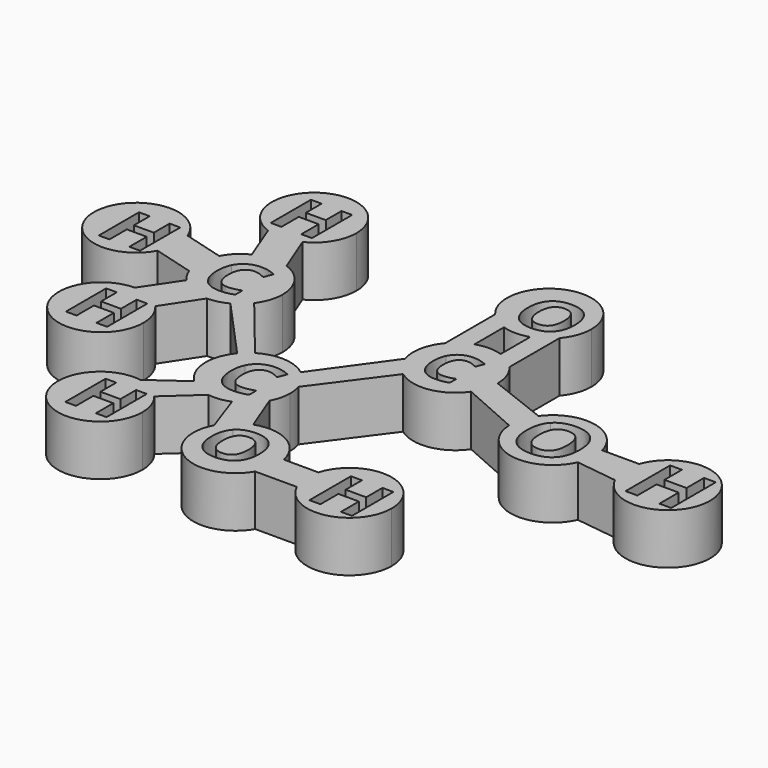
from build123d import *

# Parameters (mm, degrees)
F1_DEPTH = 7.62
F2_DEPTH = 7.62
F3_DEPTH = 7.62
F4_DEPTH = 7.62


with BuildPart() as f1:
    # F0 (on Top) → F1 (new body)
    with BuildSketch(Plane.XY):
        with BuildLine():
            ThreePointArc((-41.5472094332, 7.867381293), (-40.6139792136, 9.661250429), (-40.2920197554, 11.6575538196))
            ThreePointArc((-40.2920197554, 11.6575538196), (-41.4442566989, 15.3052598397), (-44.4828100575, 17.6291795179))
            ThreePointArc((-44.4828100575, 17.6291795179), (-47.0134620153, 17.9966807821), (-49.4838757384, 17.3361411942))
            ThreePointArc((-49.4838757384, 17.3361411942), (-51.0721917769, 16.2068478153), (-52.2432216617, 14.649047962))
            ThreePointArc((-52.2432216617, 14.649047962), (-52.9765445372, 12.1006066242), (-52.6051150283, 9.4748960896))
            ThreePointArc((-52.6051150283, 9.4748960896), (-52.0912500042, 8.3974327029), (-51.3848108774, 7.4351809828))
            ThreePointArc((-51.3848108774, 7.4351809828), (-49.2342923143, 5.860776872), (-46.6271018654, 5.3075713427))
            ThreePointArc((-46.6271018654, 5.3075713427), (-45.1019442488, 5.4971425156), (-43.6670023813, 6.0475830867))
            ThreePointArc((-43.6670023813, 6.0475830867), (-42.5057840102, 6.8394573219), (-41.5472094332, 7.867381293))
        make_face()
        with BuildLine():
            add(Edge.make_bspline(
                [(-45.6979172313, 14.0478825951), (-46.1262115021, 14.197537543), (-46.5396229604, 14.197537543)],
                knots=[0, 0, 0, 1, 1, 1], degree=2))
            add(Edge.make_bspline(
                [(-46.5396229604, 14.197537543), (-47.4441672313, 14.197537543), (-47.9402609813, 13.5178891055)],
                knots=[0, 0, 0, 1, 1, 1], degree=2))
            add(Edge.make_bspline(
                [(-47.9402609813, 13.5178891055), (-48.4363547313, 12.838240668), (-48.4363547313, 11.6244646263)],
                knots=[0, 0, 0, 1, 1, 1], degree=2))
            add(Edge.make_bspline(
                [(-48.4363547313, 11.6244646263), (-48.4363547313, 9.097693793), (-46.5396229604, 9.097693793)],
                knots=[0, 0, 0, 1, 1, 1], degree=2))
            add(Edge.make_bspline(
                [(-46.5396229604, 9.097693793), (-45.7442193146, 9.097693793), (-44.6131255646, 9.494568793)],
                knots=[0, 0, 0, 1, 1, 1], degree=2))
            Line((-44.6131255646, 9.494568793), (-44.6131255646, 8.1518083763))
            add(Edge.make_bspline(
                [(-44.6131255646, 8.1518083763), (-45.5424745229, 7.7632016055), (-46.6901047313, 7.7632016055)],
                knots=[0, 0, 0, 1, 1, 1], degree=2))
            add(Edge.make_bspline(
                [(-46.6901047313, 7.7632016055), (-48.3387896271, 7.7632016055), (-49.2119146271, 8.7636573346)],
                knots=[0, 0, 0, 1, 1, 1], degree=2))
            add(Edge.make_bspline(
                [(-49.2119146271, 8.7636573346), (-50.0850396271, 9.7641130638), (-50.0850396271, 11.6343865013)],
                knots=[0, 0, 0, 1, 1, 1], degree=2))
            add(Edge.make_bspline(
                [(-50.0850396271, 11.6343865013), (-50.0850396271, 12.8134359805), (-49.6559185334, 13.6997901471)],
                knots=[0, 0, 0, 1, 1, 1], degree=2))
            add(Edge.make_bspline(
                [(-49.6559185334, 13.6997901471), (-49.2267974396, 14.5861443138), (-48.4231255646, 15.0582601992)],
                knots=[0, 0, 0, 1, 1, 1], degree=2))
            add(Edge.make_bspline(
                [(-48.4231255646, 15.0582601992), (-47.6194536896, 15.5303760846), (-46.5396229604, 15.5303760846)],
                knots=[0, 0, 0, 1, 1, 1], degree=2))
            add(Edge.make_bspline(
                [(-46.5396229604, 15.5303760846), (-45.4399484813, 15.5303760846), (-44.3286984813, 14.9995557721)],
                knots=[0, 0, 0, 1, 1, 1], degree=2))
            Line((-44.3286984813, 14.9995557721), (-44.8446359813, 13.6964828555))
            add(Edge.make_bspline(
                [(-44.8446359813, 13.6964828555), (-45.2696229604, 13.8982276471), (-45.6979172313, 14.0478825951)],
                knots=[0, 0, 0, 1, 1, 1], degree=2))
        make_face(mode=Mode.SUBTRACT)
        with BuildLine():
            ThreePointArc((-49.4838757384, 17.3361411942), (-47.0134620153, 17.9966807821), (-44.4828100575, 17.6291795179))
            Line((-44.4828100575, 17.6291795179), (-46.8230163785, 23.5322240184))
            ThreePointArc((-46.8230163785, 23.5322240184), (-49.2724815027, 22.8906955459), (-51.7778847596, 23.2572916408))
            Line((-51.7778847596, 23.2572916408), (-49.4838757384, 17.3361411942))
        make_face()
        with BuildLine():
            Line((-33.539114735, -1.9885576455), (-41.5472094332, 7.867381293))
            ThreePointArc((-41.5472094332, 7.867381293), (-42.5057840102, 6.8394573219), (-43.6670023813, 6.0475830867))
            Line((-43.6670023813, 6.0475830867), (-35.1290295847, -3.3541731601))
            ThreePointArc((-35.1290295847, -3.3541731601), (-34.3908030894, -2.6053165433), (-33.539114735, -1.9885576455))
        make_face()
        with BuildLine():
            ThreePointArc((-51.7778847596, 23.2572916408), (-49.2724815027, 22.8906955459), (-46.8230163785, 23.5322240184))
            ThreePointArc((-46.8230163785, 23.5322240184), (-44.233990102, 25.8742743514), (-43.2742848404, 29.2309427344))
            ThreePointArc((-43.2742848404, 29.2309427344), (-53.274431448, 34.4269921706), (-51.7778847596, 23.2572916408))
        make_face()
        Polygon((-46.5624499076, 32.5375534976), (-46.5624499076, 24.9820456851), (-48.1598717826, 24.9820456851), (-48.1598717826, 28.2430352684), (-51.1513170951, 28.2430352684), (-51.1513170951, 24.9820456851), (-52.7536999076, 24.9820456851), (-52.7536999076, 32.5375534976), (-51.1513170951, 32.5375534976), (-51.1513170951, 29.5758738101), (-48.1598717826, 29.5758738101), (-48.1598717826, 32.5375534976), align=None, mode=Mode.SUBTRACT)
        with BuildLine():
            ThreePointArc((-26.3201731453, -2.4371026397), (-29.8595405508, -1.0845770587), (-33.539114735, -1.9885576455))
            ThreePointArc((-33.539114735, -1.9885576455), (-34.3908030894, -2.6053165433), (-35.1290295847, -3.3541731601))
            ThreePointArc((-35.1290295847, -3.3541731601), (-36.5928094864, -7.7878161763), (-34.6292338381, -12.0238771614))
            ThreePointArc((-34.6292338381, -12.0238771614), (-33.0375543344, -13.1294224846), (-31.1865501161, -13.703406359))
            ThreePointArc((-31.1865501161, -13.703406359), (-29.5319438598, -13.7312448979), (-27.9263307737, -13.3306160601))
            ThreePointArc((-27.9263307737, -13.3306160601), (-26.0226036416, -12.1576913712), (-24.6434808197, -10.3975920668))
            ThreePointArc((-24.6434808197, -10.3975920668), (-24.0911488723, -8.9553137379), (-23.903334907, -7.4223547453))
            ThreePointArc((-23.903334907, -7.4223547453), (-23.977780063, -6.4528644673), (-24.1993699934, -5.5061061121))
            ThreePointArc((-24.1993699934, -5.5061061121), (-25.029316302, -3.8123506436), (-26.3201731453, -2.4371026397))
        make_face()
        with BuildLine():
            add(Edge.make_bspline(
                [(-28.5368360891, -4.793671858), (-28.96513036, -4.6440169101), (-29.3785418183, -4.6440169101)],
                knots=[0, 0, 0, 1, 1, 1], degree=2))
            add(Edge.make_bspline(
                [(-29.3785418183, -4.6440169101), (-30.2830860891, -4.6440169101), (-30.7791798391, -5.3236653476)],
                knots=[0, 0, 0, 1, 1, 1], degree=2))
            add(Edge.make_bspline(
                [(-30.7791798391, -5.3236653476), (-31.2752735891, -6.0033137851), (-31.2752735891, -7.2170898268)],
                knots=[0, 0, 0, 1, 1, 1], degree=2))
            add(Edge.make_bspline(
                [(-31.2752735891, -7.2170898268), (-31.2752735891, -9.7438606601), (-29.3785418183, -9.7438606601)],
                knots=[0, 0, 0, 1, 1, 1], degree=2))
            add(Edge.make_bspline(
                [(-29.3785418183, -9.7438606601), (-28.5831381725, -9.7438606601), (-27.4520444225, -9.3469856601)],
                knots=[0, 0, 0, 1, 1, 1], degree=2))
            Line((-27.4520444225, -9.3469856601), (-27.4520444225, -10.6897460768))
            add(Edge.make_bspline(
                [(-27.4520444225, -10.6897460768), (-28.3813933808, -11.0783528476), (-29.5290235891, -11.0783528476)],
                knots=[0, 0, 0, 1, 1, 1], degree=2))
            add(Edge.make_bspline(
                [(-29.5290235891, -11.0783528476), (-31.177708485, -11.0783528476), (-32.050833485, -10.0778971185)],
                knots=[0, 0, 0, 1, 1, 1], degree=2))
            add(Edge.make_bspline(
                [(-32.050833485, -10.0778971185), (-32.923958485, -9.0774413893), (-32.923958485, -7.2071679518)],
                knots=[0, 0, 0, 1, 1, 1], degree=2))
            add(Edge.make_bspline(
                [(-32.923958485, -7.2071679518), (-32.923958485, -6.0281184726), (-32.4948373912, -5.141764306)],
                knots=[0, 0, 0, 1, 1, 1], degree=2))
            add(Edge.make_bspline(
                [(-32.4948373912, -5.141764306), (-32.0657162975, -4.2554101393), (-31.2620444225, -3.7832942539)],
                knots=[0, 0, 0, 1, 1, 1], degree=2))
            add(Edge.make_bspline(
                [(-31.2620444225, -3.7832942539), (-30.4583725475, -3.3111783685), (-29.3785418183, -3.3111783685)],
                knots=[0, 0, 0, 1, 1, 1], degree=2))
            add(Edge.make_bspline(
                [(-29.3785418183, -3.3111783685), (-28.2788673391, -3.3111783685), (-27.1676173391, -3.841998681)],
                knots=[0, 0, 0, 1, 1, 1], degree=2))
            Line((-27.1676173391, -3.841998681), (-27.6835548391, -5.1450715976))
            add(Edge.make_bspline(
                [(-27.6835548391, -5.1450715976), (-28.1085418183, -4.943326806), (-28.5368360891, -4.793671858)],
                knots=[0, 0, 0, 1, 1, 1], degree=2))
        make_face(mode=Mode.SUBTRACT)
        with BuildLine():
            ThreePointArc((-52.6051150283, 9.4748960896), (-52.9765445372, 12.1006066242), (-52.2432216617, 14.649047962))
            Line((-52.2432216617, 14.649047962), (-58.3578806431, 16.3617783967))
            ThreePointArc((-58.3578806431, 16.3617783967), (-58.068450227, 15.2874629011), (-57.970975916, 14.1791206668))
            ThreePointArc((-57.970975916, 14.1791206668), (-58.161019256, 12.6372276915), (-58.7197740096, 11.1876265244))
            Line((-58.7197740096, 11.1876265244), (-52.6051150283, 9.4748960896))
        make_face()
        with BuildLine():
            Line((-50.1131004945, 0), (-46.6271018654, 5.3075713427))
            ThreePointArc((-46.6271018654, 5.3075713427), (-49.2342923143, 5.860776872), (-51.3848108774, 7.4351809828))
            Line((-51.3848108774, 7.4351809828), (-54.9445749736, 2.1767991424))
            ThreePointArc((-54.9445749736, 2.1767991424), (-52.2909138132, 1.6164792315), (-50.1131004945, 0))
        make_face()
        with BuildLine():
            Line((-18.8967230795, 7.867381293), (-26.3201731453, -2.4371026397))
            ThreePointArc((-26.3201731453, -2.4371026397), (-25.029316302, -3.8123506436), (-24.1993699934, -5.5061061121))
            Line((-24.1993699934, -5.5061061121), (-16.6327704727, 4.6937258323))
            ThreePointArc((-16.6327704727, 4.6937258323), (-18.0143183809, 6.1025196543), (-18.8967230795, 7.867381293))
        make_face()
        with BuildLine():
            ThreePointArc((-57.970975916, 14.1791206668), (-58.068450227, 15.2874629011), (-58.3578806431, 16.3617783967))
            ThreePointArc((-58.3578806431, 16.3617783967), (-70.6555006979, 14.6221734714), (-58.7197740096, 11.1876265244))
            ThreePointArc((-58.7197740096, 11.1876265244), (-58.161019256, 12.6372276915), (-57.970975916, 14.1791206668))
        make_face()
        Polygon((-60.3246733755, 17.4455633405), (-60.3246733755, 9.890055528), (-61.9220952505, 9.890055528), (-61.9220952505, 13.1510451114), (-64.913540563, 13.1510451114), (-64.913540563, 9.890055528), (-66.5159233755, 9.890055528), (-66.5159233755, 17.4455633405), (-64.913540563, 17.4455633405), (-64.913540563, 14.483883653), (-61.9220952505, 14.483883653), (-61.9220952505, 17.4455633405), align=None, mode=Mode.SUBTRACT)
        with BuildLine():
            ThreePointArc((-48.5493556508, -4.1730398487), (-48.953129106, -1.9448365638), (-50.1131004945, 0))
            ThreePointArc((-50.1131004945, 0), (-52.2909138132, 1.6164792315), (-54.9445749736, 2.1767991424))
            ThreePointArc((-54.9445749736, 2.1767991424), (-59.3734677024, -8.6791269928), (-48.5493556508, -4.1730398487))
        make_face()
        Polygon((-51.2570647713, -0.0644921875), (-51.2570647713, -7.62), (-52.8544866463, -7.62), (-52.8544866463, -4.3590104167), (-55.8459319588, -4.3590104167), (-55.8459319588, -7.62), (-57.4483147713, -7.62), (-57.4483147713, -0.0644921875), (-55.8459319588, -0.0644921875), (-55.8459319588, -3.026171875), (-52.8544866463, -3.026171875), (-52.8544866463, -0.0644921875), align=None, mode=Mode.SUBTRACT)
        with BuildLine():
            ThreePointArc((-31.1865501161, -13.703406359), (-33.0375543344, -13.1294224846), (-34.6292338381, -12.0238771614))
            Line((-34.6292338381, -12.0238771614), (-39.7977754426, -15.7128712902))
            ThreePointArc((-39.7977754426, -15.7128712902), (-37.6368818339, -16.4822685802), (-35.8903242164, -17.9692016205))
            Line((-35.8903242164, -17.9692016205), (-31.1865501161, -13.703406359))
        make_face()
        with BuildLine():
            ThreePointArc((-17.6821282379, 13.9039849618), (-19.0700841388, 11.0427555169), (-18.8967230795, 7.867381293))
            ThreePointArc((-18.8967230795, 7.867381293), (-18.0143183809, 6.1025196543), (-16.6327704727, 4.6937258323))
            ThreePointArc((-16.6327704727, 4.6937258323), (-11.8040182125, 3.526087342), (-7.612324866, 6.1925334643))
            ThreePointArc((-7.612324866, 6.1925334643), (-6.7806456374, 7.9065916499), (-6.4948436057, 9.7902059951))
            ThreePointArc((-6.4948436057, 9.7902059951), (-6.8850089849, 11.9817514071), (-8.0075589735, 13.9039849618))
            ThreePointArc((-8.0075589735, 13.9039849618), (-9.307864493, 15.0639407966), (-10.8745052178, 15.8267833894))
            ThreePointArc((-10.8745052178, 15.8267833894), (-12.8448436057, 16.1402059951), (-14.8151819936, 15.8267833894))
            ThreePointArc((-14.8151819936, 15.8267833894), (-16.3818227185, 15.0639407966), (-17.6821282379, 13.9039849618))
        make_face()
        with BuildLine():
            add(Edge.make_bspline(
                [(-11.9700489062, 11.7778634043), (-12.3595908111, 11.9139774676), (-12.7355965107, 11.9139774676)],
                knots=[0, 0, 0, 1, 1, 1], degree=2))
            add(Edge.make_bspline(
                [(-12.7355965107, 11.9139774676), (-13.5582969816, 11.9139774676), (-14.0095038212, 11.2958240973)],
                knots=[0, 0, 0, 1, 1, 1], degree=2))
            add(Edge.make_bspline(
                [(-14.0095038212, 11.2958240973), (-14.4607106608, 10.6776707271), (-14.4607106608, 9.5737179929)],
                knots=[0, 0, 0, 1, 1, 1], degree=2))
            add(Edge.make_bspline(
                [(-14.4607106608, 9.5737179929), (-14.4607106608, 7.2755711565), (-12.7355965107, 7.2755711565)],
                knots=[0, 0, 0, 1, 1, 1], degree=2))
            add(Edge.make_bspline(
                [(-12.7355965107, 7.2755711565), (-12.0121615446, 7.2755711565), (-10.9834099503, 7.6365366282)],
                knots=[0, 0, 0, 1, 1, 1], degree=2))
            Line((-10.9834099503, 7.6365366282), (-10.9834099503, 6.4152701157))
            add(Edge.make_bspline(
                [(-10.9834099503, 6.4152701157), (-11.8286707632, 6.061824758), (-12.8724625854, 6.061824758)],
                knots=[0, 0, 0, 1, 1, 1], degree=2))
            add(Edge.make_bspline(
                [(-12.8724625854, 6.061824758), (-14.3719733157, 6.061824758), (-15.1660973534, 6.9717585512)],
                knots=[0, 0, 0, 1, 1, 1], degree=2))
            add(Edge.make_bspline(
                [(-15.1660973534, 6.9717585512), (-15.960221391, 7.8816923444), (-15.960221391, 9.5827421297)],
                knots=[0, 0, 0, 1, 1, 1], degree=2))
            add(Edge.make_bspline(
                [(-15.960221391, 9.5827421297), (-15.960221391, 10.6551103851), (-15.5699274748, 11.4612666052)],
                knots=[0, 0, 0, 1, 1, 1], degree=2))
            add(Edge.make_bspline(
                [(-15.5699274748, 11.4612666052), (-15.1796335585, 12.2674228253), (-14.4486784784, 12.6968213343)],
                knots=[0, 0, 0, 1, 1, 1], degree=2))
            add(Edge.make_bspline(
                [(-14.4486784784, 12.6968213343), (-13.7177233983, 13.1262198433), (-12.7355965107, 13.1262198433)],
                knots=[0, 0, 0, 1, 1, 1], degree=2))
            add(Edge.make_bspline(
                [(-12.7355965107, 13.1262198433), (-11.7354213496, 13.1262198433), (-10.7247180289, 12.6434285249)],
                knots=[0, 0, 0, 1, 1, 1], degree=2))
            Line((-10.7247180289, 12.6434285249), (-11.1939731421, 11.4582585596))
            add(Edge.make_bspline(
                [(-11.1939731421, 11.4582585596), (-11.5805070014, 11.641749341), (-11.9700489062, 11.7778634043)],
                knots=[0, 0, 0, 1, 1, 1], degree=2))
        make_face(mode=Mode.SUBTRACT)
        with BuildLine():
            ThreePointArc((-35.8903242164, -17.9692016205), (-37.6368818339, -16.4822685802), (-39.7977754426, -15.7128712902))
            ThreePointArc((-39.7977754426, -15.7128712902), (-45.6477840661, -26.0971623512), (-34.4622642444, -21.9813090917))
            ThreePointArc((-34.4622642444, -21.9813090917), (-34.829922764, -19.8519687218), (-35.8903242164, -17.9692016205))
        make_face()
        Polygon((-36.9678832229, -18.033693808), (-36.9678832229, -25.5892016205), (-38.5653050979, -25.5892016205), (-38.5653050979, -22.3282120372), (-41.5567504104, -22.3282120372), (-41.5567504104, -25.5892016205), (-43.1591332229, -25.5892016205), (-43.1591332229, -18.033693808), (-41.5567504104, -18.033693808), (-41.5567504104, -20.9953734955), (-38.5653050979, -20.9953734955), (-38.5653050979, -18.033693808), align=None, mode=Mode.SUBTRACT)
        with BuildLine():
            Line((-17.6821282379, 23.3019849618), (-17.6821282379, 13.9039849618))
            ThreePointArc((-17.6821282379, 13.9039849618), (-16.3818227185, 15.0639407966), (-14.8151819936, 15.8267833894))
            Line((-14.8151819936, 15.8267833894), (-14.8151819936, 21.3791865343))
            ThreePointArc((-14.8151819936, 21.3791865343), (-16.3818227185, 22.1420291271), (-17.6821282379, 23.3019849618))
        make_face()
        with BuildLine():
            ThreePointArc((-24.6434808197, -10.3975920668), (-26.0226036416, -12.1576913712), (-27.9263307737, -13.3306160601))
            Line((-27.9263307737, -13.3306160601), (-25.819801258, -19.3210278489))
            ThreePointArc((-25.819801258, -19.3210278489), (-24.3653150466, -17.4954500187), (-22.3494717986, -16.3187425134))
            Line((-22.3494717986, -16.3187425134), (-24.6434808197, -10.3975920668))
        make_face()
        with BuildLine():
            ThreePointArc((-6.4948436057, 9.7902059951), (-6.7806456374, 7.9065916499), (-7.612324866, 6.1925334643))
            Line((-7.612324866, 6.1925334643), (1.2215423795, 2.2773173451))
            ThreePointArc((1.2215423795, 2.2773173451), (1.4831464912, 4.3900649664), (2.4283398334, 6.2976154292))
            Line((2.4283398334, 6.2976154292), (-6.4948436057, 9.7902059951))
        make_face()
        with BuildLine():
            ThreePointArc((-6.4948436057, 27.4157639286), (-15.0363890177, 33.3755985494), (-17.6821282379, 23.3019849618))
            ThreePointArc((-17.6821282379, 23.3019849618), (-16.3818227185, 22.1420291271), (-14.8151819936, 21.3791865343))
            ThreePointArc((-14.8151819936, 21.3791865343), (-12.8448436057, 21.0657639286), (-10.8745052178, 21.3791865343))
            ThreePointArc((-10.8745052178, 21.3791865343), (-9.307864493, 22.1420291271), (-8.0075589735, 23.3019849618))
            ThreePointArc((-8.0075589735, 23.3019849618), (-6.8850089849, 25.2242185166), (-6.4948436057, 27.4157639286))
        make_face()
        with BuildLine():
            add(Edge.make_bspline(
                [(-9.5814648545, 29.8477483011), (-8.6761393016, 28.8637340576), (-8.6761393016, 27.01901156)],
                knots=[0, 0, 0, 1, 1, 1], degree=2))
            add(Edge.make_bspline(
                [(-8.6761393016, 27.01901156), (-8.6761393016, 25.1775339568), (-9.588765867, 24.1886523717)],
                knots=[0, 0, 0, 1, 1, 1], degree=2))
            add(Edge.make_bspline(
                [(-9.588765867, 24.1886523717), (-10.5013924325, 23.1997707865), (-12.2049620213, 23.1997707865)],
                knots=[0, 0, 0, 1, 1, 1], degree=2))
            add(Edge.make_bspline(
                [(-12.2049620213, 23.1997707865), (-13.9085316102, 23.1997707865), (-14.8211581756, 24.1886523717)],
                knots=[0, 0, 0, 1, 1, 1], degree=2))
            add(Edge.make_bspline(
                [(-14.8211581756, 24.1886523717), (-15.7337847411, 25.1775339568), (-15.7337847411, 27.0287462433)],
                knots=[0, 0, 0, 1, 1, 1], degree=2))
            add(Edge.make_bspline(
                [(-15.7337847411, 27.0287462433), (-15.7337847411, 28.8799585299), (-14.8187245048, 29.8558605372)],
                knots=[0, 0, 0, 1, 1, 1], degree=2))
            add(Edge.make_bspline(
                [(-14.8187245048, 29.8558605372), (-13.9036642685, 30.8317625445), (-12.195227338, 30.8317625445)],
                knots=[0, 0, 0, 1, 1, 1], degree=2))
            add(Edge.make_bspline(
                [(-12.195227338, 30.8317625445), (-10.4867904075, 30.8317625445), (-9.5814648545, 29.8477483011)],
                knots=[0, 0, 0, 1, 1, 1], degree=2))
        make_face(mode=Mode.SUBTRACT)
        with BuildLine():
            ThreePointArc((-22.3494717986, -16.3187425134), (-24.3653150466, -17.4954500187), (-25.819801258, -19.3210278489))
            ThreePointArc((-25.819801258, -19.3210278489), (-23.2912802534, -27.8504435003), (-14.7162904633, -25.4810765123))
            ThreePointArc((-14.7162904633, -25.4810765123), (-14.0783435664, -23.9458856978), (-13.8607225365, -22.2977266741))
            ThreePointArc((-13.8607225365, -22.2977266741), (-13.8933888527, -21.6544575803), (-13.9910517104, -21.0178068272))
            ThreePointArc((-13.9910517104, -21.0178068272), (-17.098845039, -16.7625014356), (-22.3494717986, -16.3187425134))
        make_face()
        with BuildLine():
            add(Edge.make_bspline(
                [(-18.0301439876, -18.8094423977), (-17.1074096126, -19.8123785957), (-17.1074096126, -21.6925739082)],
                knots=[0, 0, 0, 1, 1, 1], degree=2))
            add(Edge.make_bspline(
                [(-17.1074096126, -21.6925739082), (-17.1074096126, -23.569461929), (-18.0375853938, -24.5773590644)],
                knots=[0, 0, 0, 1, 1, 1], degree=2))
            add(Edge.make_bspline(
                [(-18.0375853938, -24.5773590644), (-18.9677611751, -25.5852561998), (-20.7040893001, -25.5852561998)],
                knots=[0, 0, 0, 1, 1, 1], degree=2))
            add(Edge.make_bspline(
                [(-20.7040893001, -25.5852561998), (-22.4404174251, -25.5852561998), (-23.3705932063, -24.5773590644)],
                knots=[0, 0, 0, 1, 1, 1], degree=2))
            add(Edge.make_bspline(
                [(-23.3705932063, -24.5773590644), (-24.3007689876, -23.569461929), (-24.3007689876, -21.6826520332)],
                knots=[0, 0, 0, 1, 1, 1], degree=2))
            add(Edge.make_bspline(
                [(-24.3007689876, -21.6826520332), (-24.3007689876, -19.7958421373), (-23.3681127376, -18.8011741686)],
                knots=[0, 0, 0, 1, 1, 1], degree=2))
            add(Edge.make_bspline(
                [(-23.3681127376, -18.8011741686), (-22.4354564876, -17.8065061998), (-20.6941674251, -17.8065061998)],
                knots=[0, 0, 0, 1, 1, 1], degree=2))
            add(Edge.make_bspline(
                [(-20.6941674251, -17.8065061998), (-18.9528783626, -17.8065061998), (-18.0301439876, -18.8094423977)],
                knots=[0, 0, 0, 1, 1, 1], degree=2))
        make_face(mode=Mode.SUBTRACT)
        with BuildLine():
            ThreePointArc((2.4283398334, 6.2976154292), (1.4831464912, 4.3900649664), (1.2215423795, 2.2773173451))
            ThreePointArc((1.2215423795, 2.2773173451), (6.3954642073, -3.6769365782), (13.3741993551, 0))
            ThreePointArc((13.3741993551, 0), (13.7783651813, 1.2540049563), (13.9150485234, 2.5644232518))
            ThreePointArc((13.9150485234, 2.5644232518), (13.8640373852, 3.3676911519), (13.711823541, 4.158053348))
            ThreePointArc((13.711823541, 4.158053348), (8.748048934, 8.8032540741), (2.4283398334, 6.2976154292))
        make_face()
        with BuildLine():
            add(Edge.make_bspline(
                [(10.5725216947, 5.8285300129), (11.5992845523, 4.7125234303), (11.5992845523, 2.6203561023)],
                knots=[0, 0, 0, 1, 1, 1], degree=2))
            add(Edge.make_bspline(
                [(11.5992845523, 2.6203561023), (11.5992845523, 0.531868928), (10.5642413491, -0.589657885)],
                knots=[0, 0, 0, 1, 1, 1], degree=2))
            add(Edge.make_bspline(
                [(10.5642413491, -0.589657885), (9.529198146, -1.711184698), (7.5971175001, -1.711184698)],
                knots=[0, 0, 0, 1, 1, 1], degree=2))
            add(Edge.make_bspline(
                [(7.5971175001, -1.711184698), (5.6650368543, -1.711184698), (4.6299936512, -0.589657885)],
                knots=[0, 0, 0, 1, 1, 1], degree=2))
            add(Edge.make_bspline(
                [(4.6299936512, -0.589657885), (3.594950448, 0.531868928), (3.594950448, 2.6313965632)],
                knots=[0, 0, 0, 1, 1, 1], degree=2))
            add(Edge.make_bspline(
                [(3.594950448, 2.6313965632), (3.594950448, 4.7309241983), (4.6327537664, 5.8377303969)],
                knots=[0, 0, 0, 1, 1, 1], degree=2))
            add(Edge.make_bspline(
                [(4.6327537664, 5.8377303969), (5.6705570847, 6.9445365954), (7.608157961, 6.9445365954)],
                knots=[0, 0, 0, 1, 1, 1], degree=2))
            add(Edge.make_bspline(
                [(7.608157961, 6.9445365954), (9.5457588372, 6.9445365954), (10.5725216947, 5.8285300129)],
                knots=[0, 0, 0, 1, 1, 1], degree=2))
        make_face(mode=Mode.SUBTRACT)
        with BuildLine():
            Line((-10.8745052178, 21.3791865343), (-10.8745052178, 15.8267833894))
            ThreePointArc((-10.8745052178, 15.8267833894), (-9.307864493, 15.0639407966), (-8.0075589735, 13.9039849618))
            Line((-8.0075589735, 13.9039849618), (-8.0075589735, 23.3019849618))
            ThreePointArc((-8.0075589735, 23.3019849618), (-9.307864493, 22.1420291271), (-10.8745052178, 21.3791865343))
        make_face()
        with BuildLine():
            ThreePointArc((-13.8607225365, -22.2977266741), (-14.0783435664, -23.9458856978), (-14.7162904633, -25.4810765123))
            Line((-14.7162904633, -25.4810765123), (-8.4545291183, -25.4810765123))
            ThreePointArc((-8.4545291183, -25.4810765123), (-9.0273445521, -23.2797619656), (-8.7876317934, -21.0178068272))
            Line((-8.7876317934, -21.0178068272), (-13.9910517104, -21.0178068272))
            ThreePointArc((-13.9910517104, -21.0178068272), (-13.8933888527, -21.6544575803), (-13.8607225365, -22.2977266741))
        make_face()
        with BuildLine():
            ThreePointArc((13.9150485234, 2.5644232518), (13.7783651813, 1.2540049563), (13.3741993551, 0))
            Line((13.3741993551, 0), (19.5879920168, -0.8028049698))
            ThreePointArc((19.5879920168, -0.8028049698), (18.9231922779, 1.6451762559), (19.2696305754, 4.158053348))
            Line((19.2696305754, 4.158053348), (13.711823541, 4.158053348))
            ThreePointArc((13.711823541, 4.158053348), (13.8640373852, 3.3676911519), (13.9150485234, 2.5644232518))
        make_face()
        with BuildLine():
            ThreePointArc((-8.7876317934, -21.0178068272), (-9.0273445521, -23.2797619656), (-8.4545291183, -25.4810765123))
            ThreePointArc((-8.4545291183, -25.4810765123), (-1.3257937909, -29.0077999532), (3.6550444452, -22.8071632066))
            ThreePointArc((3.6550444452, -22.8071632066), (-1.791073404, -16.5218233544), (-8.7876317934, -21.0178068272))
        make_face()
        Polygon((1.189184032, -19.4027137327), (1.189184032, -27.1933096922), (-0.457941312, -27.1933096922), (-0.457941312, -23.8308550562), (-3.54246486, -23.8308550562), (-3.54246486, -27.1933096922), (-5.1947055001, -27.1933096922), (-5.1947055001, -19.4027137327), (-3.54246486, -19.4027137327), (-3.54246486, -22.4565455041), (-0.457941312, -22.4565455041), (-0.457941312, -19.4027137327), align=None, mode=Mode.SUBTRACT)
        with BuildLine():
            ThreePointArc((19.2696305754, 4.158053348), (18.9231922779, 1.6451762559), (19.5879920168, -0.8028049698))
            ThreePointArc((19.5879920168, -0.8028049698), (26.7271697005, -4.126368751), (31.6101566461, 2.0518488478))
            ThreePointArc((31.6101566461, 2.0518488478), (26.3284869909, 8.3113352704), (19.2696305754, 4.158053348))
        make_face()
        Polygon((29.1925112349, 6.145079578), (29.1925112349, -2.2261187628), (27.4226321372, -2.2261187628), (27.4226321372, 1.3869263517), (24.1082312183, 1.3869263517), (24.1082312183, -2.2261187628), (22.3328556017, -2.2261187628), (22.3328556017, 6.145079578), (24.1082312183, 6.145079578), (24.1082312183, 2.8636577727), (27.4226321372, 2.8636577727), (27.4226321372, 6.145079578), align=None, mode=Mode.SUBTRACT)
    extrude(amount=-F1_DEPTH)


with BuildPart() as f2:
    # F0 (on Top) → F2 (new body)
    with BuildSketch(Plane.XY):
        with BuildLine():
            add(Edge.make_bspline(
                [(-13.6091900967, 28.8913156605), (-14.085378358, 28.260183689), (-14.085378358, 27.01901156)],
                knots=[0, 0, 0, 1, 1, 1], degree=2))
            add(Edge.make_bspline(
                [(-14.085378358, 27.01901156), (-14.085378358, 25.7762169837), (-13.6140574384, 25.1475186831)],
                knots=[0, 0, 0, 1, 1, 1], degree=2))
            add(Edge.make_bspline(
                [(-13.6140574384, 25.1475186831), (-13.1427365188, 24.5188203824), (-12.2049620213, 24.5188203824)],
                knots=[0, 0, 0, 1, 1, 1], degree=2))
            add(Edge.make_bspline(
                [(-12.2049620213, 24.5188203824), (-10.3245456847, 24.5188203824), (-10.3245456847, 27.01901156)],
                knots=[0, 0, 0, 1, 1, 1], degree=2))
            add(Edge.make_bspline(
                [(-10.3245456847, 27.01901156), (-10.3245456847, 29.522447632), (-12.195227338, 29.522447632)],
                knots=[0, 0, 0, 1, 1, 1], degree=2))
            add(Edge.make_bspline(
                [(-12.195227338, 29.522447632), (-13.1330018355, 29.522447632), (-13.6091900967, 28.8913156605)],
                knots=[0, 0, 0, 1, 1, 1], degree=2))
        make_face()
    extrude(amount=-F2_DEPTH)


with BuildPart() as f3:
    # F0 (on Top) → F3 (new body)
    with BuildSketch(Plane.XY):
        with BuildLine():
            add(Edge.make_bspline(
                [(6.0045310249, 4.743804736), (5.4644684825, 4.0280148586), (5.4644684825, 2.6203561023)],
                knots=[0, 0, 0, 1, 1, 1], degree=2))
            add(Edge.make_bspline(
                [(5.4644684825, 2.6203561023), (5.4644684825, 1.2108572693), (5.9990107945, 0.4978275071)],
                knots=[0, 0, 0, 1, 1, 1], degree=2))
            add(Edge.make_bspline(
                [(5.9990107945, 0.4978275071), (6.5335531065, -0.215202255), (7.5971175001, -0.215202255)],
                knots=[0, 0, 0, 1, 1, 1], degree=2))
            add(Edge.make_bspline(
                [(7.5971175001, -0.215202255), (9.7297665178, -0.215202255), (9.7297665178, 2.6203561023)],
                knots=[0, 0, 0, 1, 1, 1], degree=2))
            add(Edge.make_bspline(
                [(9.7297665178, 2.6203561023), (9.7297665178, 5.4595946133), (7.608157961, 5.4595946133)],
                knots=[0, 0, 0, 1, 1, 1], degree=2))
            add(Edge.make_bspline(
                [(7.608157961, 5.4595946133), (6.5445935674, 5.4595946133), (6.0045310249, 4.743804736)],
                knots=[0, 0, 0, 1, 1, 1], degree=2))
        make_face()
    extrude(amount=-F3_DEPTH)


with BuildPart() as f4:
    # F0 (on Top) → F4 (new body)
    with BuildSketch(Plane.XY):
        with BuildLine():
            add(Edge.make_bspline(
                [(-22.1353197688, -19.7842666165), (-22.6206648209, -20.4275348457), (-22.6206648209, -21.6925739082)],
                knots=[0, 0, 0, 1, 1, 1], degree=2))
            add(Edge.make_bspline(
                [(-22.6206648209, -21.6925739082), (-22.6206648209, -22.9592666165), (-22.1402807063, -23.6000543769)],
                knots=[0, 0, 0, 1, 1, 1], degree=2))
            add(Edge.make_bspline(
                [(-22.1402807063, -23.6000543769), (-21.6598965917, -24.2408421373), (-20.7040893001, -24.2408421373)],
                knots=[0, 0, 0, 1, 1, 1], degree=2))
            add(Edge.make_bspline(
                [(-20.7040893001, -24.2408421373), (-18.7875137792, -24.2408421373), (-18.7875137792, -21.6925739082)],
                knots=[0, 0, 0, 1, 1, 1], degree=2))
            add(Edge.make_bspline(
                [(-18.7875137792, -21.6925739082), (-18.7875137792, -19.1409983873), (-20.6941674251, -19.1409983873)],
                knots=[0, 0, 0, 1, 1, 1], degree=2))
            add(Edge.make_bspline(
                [(-20.6941674251, -19.1409983873), (-21.6499747167, -19.1409983873), (-22.1353197688, -19.7842666165)],
                knots=[0, 0, 0, 1, 1, 1], degree=2))
        make_face()
    extrude(amount=-F4_DEPTH)


solid = Compound([f1.part, f2.part, f3.part, f4.part])
